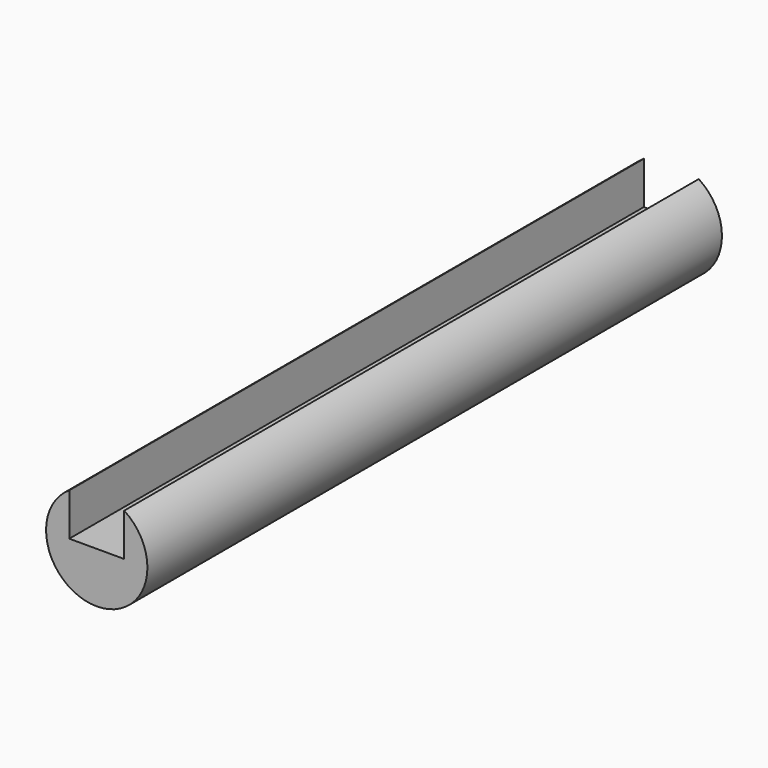
from build123d import *

# Parameters (mm, degrees)
F0_R     = 19.05
F1_DEPTH = 270.002
F2_W     = 10.333396
F2_H     = 24.209669
F3_DEPTH = 279.146


with BuildPart() as f1:
    # F0 (on Front) → F1 (new body)
    with BuildSketch(Plane.XZ):
        Circle(F0_R)
    extrude(amount=F1_DEPTH)

    # F2 (on Front) → F3 (cut)
    with BuildSketch(Plane.XZ):
        with Locations((-5.166698, 12.104834)):
            Rectangle(F2_W, F2_H)
        with Locations((5.166698, 12.104834)):
            Rectangle(F2_W, F2_H)
    extrude(amount=F3_DEPTH, mode=Mode.SUBTRACT)


solid = f1.part
